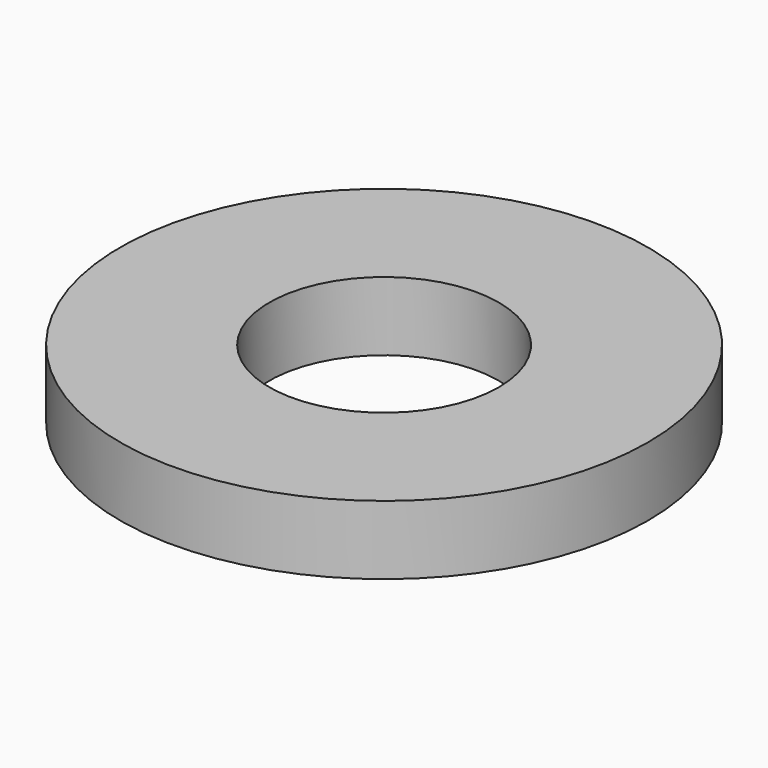
from build123d import *

# Parameters (mm, degrees)
SKETCH_R     = 11.5
PAD_DEPTH    = 3
SKETCH001_R  = 5
POCKET_DEPTH = 5


with BuildPart() as part:
    # Sketch → Pad (new body)
    with BuildSketch(Plane.XY):
        Circle(SKETCH_R)
    extrude(amount=PAD_DEPTH)

    # Sketch001 (on Face3 of Pad) → Pocket (cut)
    with BuildSketch(Plane.XY.offset(3)):
        Circle(SKETCH001_R)
    extrude(amount=-POCKET_DEPTH, mode=Mode.SUBTRACT)


solid = part.part
